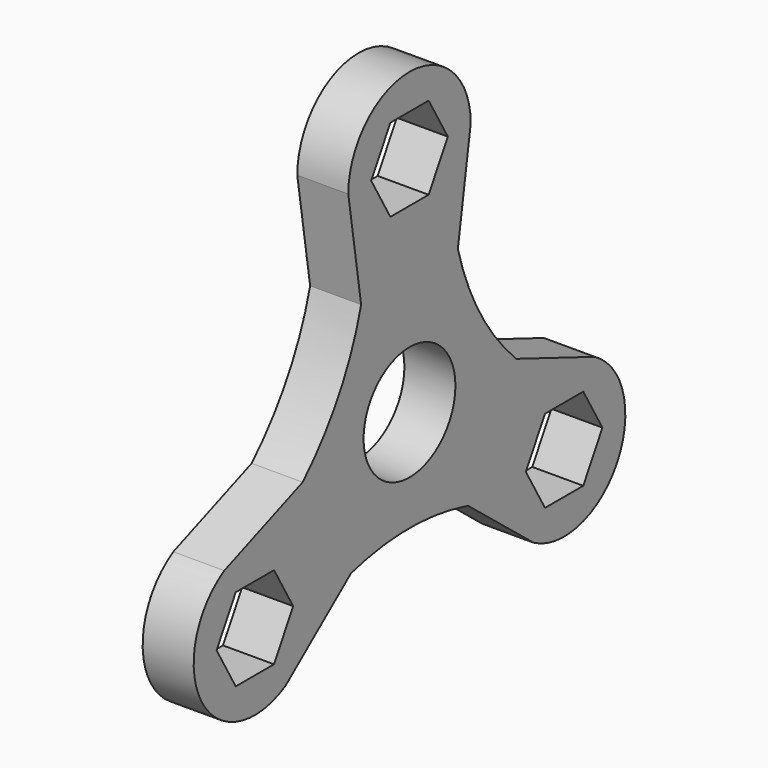
from build123d import *

# Parameters (mm, degrees)
F0_R     = 9
F1_DEPTH = 8


with BuildPart() as f1:
    # F0 (on Right) → F1 (new body)
    with BuildSketch(Plane.YZ):
        with BuildLine():
            Line((9.482996, 18.707991), (12, 35))
            ThreePointArc((12, 35), (0, 47), (-12, 35))
            Line((-12, 35), (-9.482996, 18.707991))
            ThreePointArc((-9.482996, 18.707991), (-13.851316, 7.997061), (-20.943094, -1.14148))
            Line((-20.943094, -1.14148), (-36.310889, -7.107695))
            ThreePointArc((-36.310889, -7.107695), (-40.703194, -23.5), (-24.310889, -27.892305))
            Line((-24.310889, -27.892305), (-11.460098, -17.566512))
            ThreePointArc((-11.460098, -17.566512), (0, -15.994123), (11.460098, -17.566512))
            Line((11.460098, -17.566512), (24.310889, -27.892305))
            ThreePointArc((24.310889, -27.892305), (40.703194, -23.5), (36.310889, -7.107695))
            Line((36.310889, -7.107695), (20.943094, -1.14148))
            ThreePointArc((20.943094, -1.14148), (13.851316, 7.997061), (9.482996, 18.707991))
        make_face()
        Polygon((-26.558112, -11), (-22.805336, -17.5), (-26.558112, -24), (-34.063666, -24), (-37.816443, -17.5), (-34.063666, -11), align=None, mode=Mode.SUBTRACT)
        Polygon((22.805336, -17.5), (26.558112, -11), (34.063666, -11), (37.816443, -17.5), (34.063666, -24), (26.558112, -24), align=None, mode=Mode.SUBTRACT)
        Circle(F0_R, mode=Mode.SUBTRACT)
        Polygon((7.505553, 35), (3.752777, 28.5), (-3.752777, 28.5), (-7.505553, 35), (-3.752777, 41.5), (3.752777, 41.5), align=None, mode=Mode.SUBTRACT)
    extrude(amount=F1_DEPTH)


solid = f1.part
